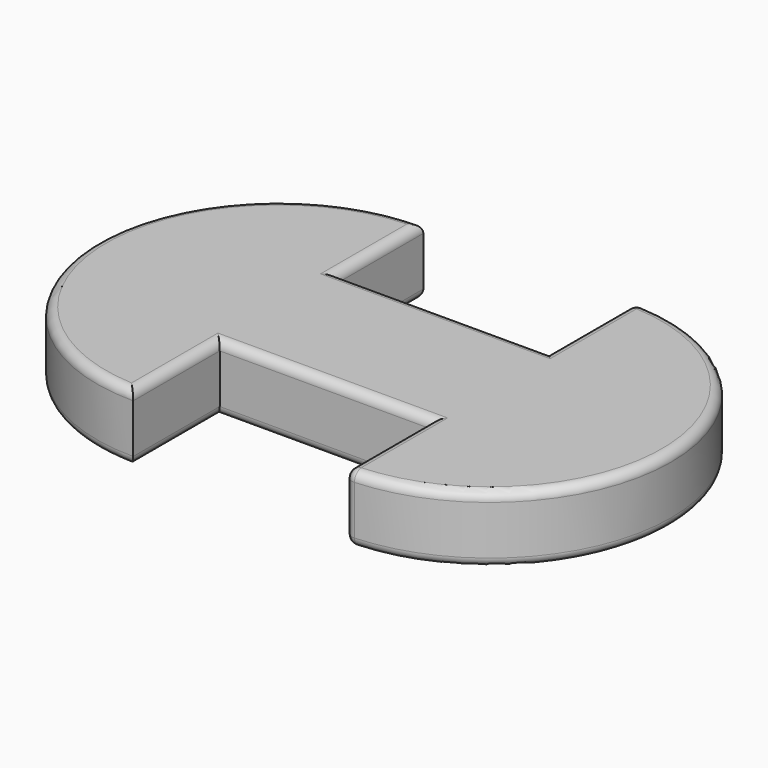
from build123d import *

# Parameters (mm, degrees)
F0_W     = 35
F0_H     = 24.2
F1_DEPTH = 11.1
F2_R     = 1.5


with BuildPart() as f1:
    # F0 (on Top) → F1 (new body)
    with BuildSketch(Plane.XY):
        with BuildLine():
            Line((-17.5, -12.1), (-17.5, 12.1))
            Line((-17.5, 12.1), (-17.5, 30))
            ThreePointArc((-17.5, 30), (-47.5, 0), (-17.5, -30))
            Line((-17.5, -30), (-17.5, -12.1))
        make_face()
        with BuildLine():
            Line((17.5, 30), (17.5, 12.1))
            Line((17.5, 12.1), (17.5, -12.1))
            Line((17.5, -12.1), (17.5, -30))
            ThreePointArc((17.5, -30), (47.5, 0), (17.5, 30))
        make_face()
        Rectangle(F0_W, F0_H)
    extrude(amount=F1_DEPTH)

    # F2
    f2_edges = [f1.edges().sort_by_distance(p)[0] for p in [
        (-47.5, 0, 11.1),
        (-17.5, 21.05, 11.1),
        (-17.5, -21.05, 11.1),
        (0, -12.1, 11.1),
        (17.5, -21.05, 11.1),
        (47.5, 0, 11.1),
        (17.5, 21.05, 11.1),
        (0, 12.1, 11.1),
        (-17.5, -21.05, 0),
        (0, -12.1, 0),
        (17.5, -21.05, 0),
        (47.5, 0, 0),
        (17.5, 21.05, 0),
        (0, 12.1, 0),
        (-17.5, 21.05, 0),
        (-47.5, 0, 0),
        (17.5, -30, 5.55),
        (17.5, 30, 5.55),
    ]]
    fillet(f2_edges, radius=F2_R)


solid = f1.part
